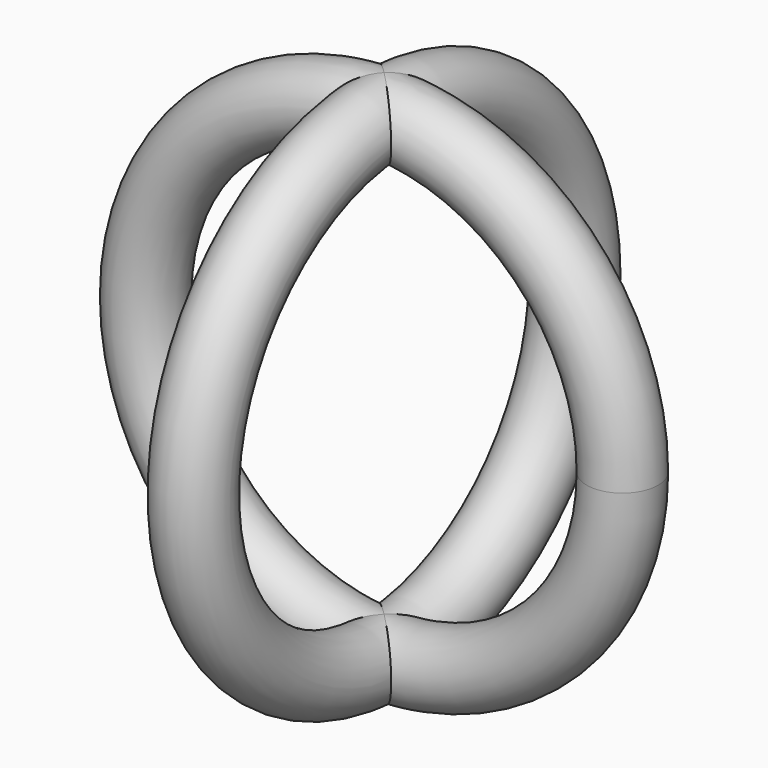
from build123d import *

# Parameters (mm, degrees)
F0_R = 1.5


with BuildPart() as f1:
    # F0 (on Top) → F1 (revolve)
    with BuildSketch(Plane.XY):
        with Locations((10, 0)):
            Circle(F0_R)
    revolve(axis=Axis((0, 5, 0), (0, 1, 0)))

    # F0 (on Top) → F2 (revolve)
    with BuildSketch(Plane.XY):
        with Locations((10, 0)):
            Circle(F0_R)
    revolve(axis=Axis((0, 5, 0), (0, 1, 0)))

    # F0 (on Top) → F3 (revolve)
    with BuildSketch(Plane.XY):
        with Locations((0, 10)):
            Circle(F0_R)
    revolve(axis=Axis((5, 0, 0), (1, 0, 0)))


solid = f1.part
